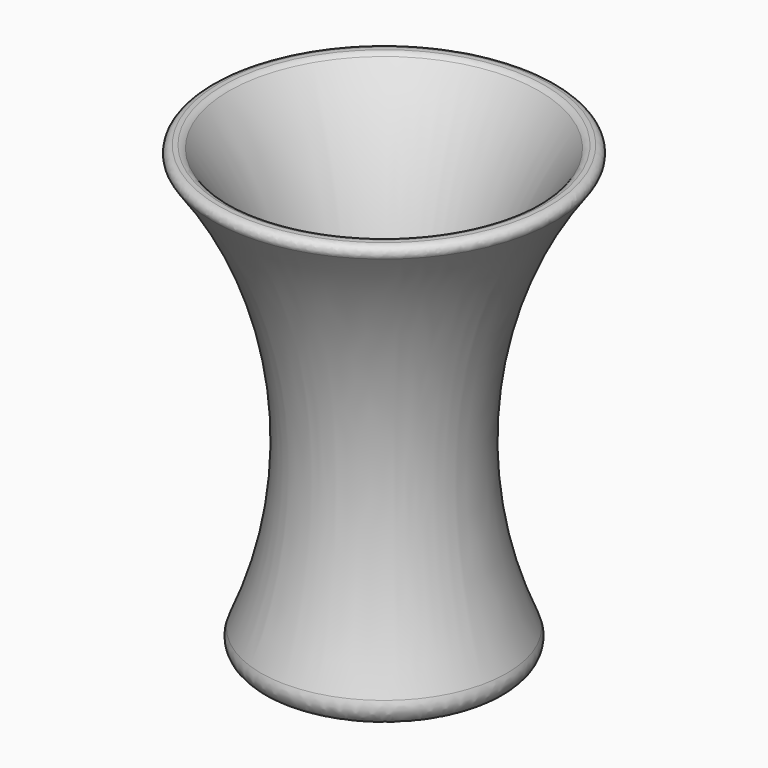
from build123d import *

# Parameters (mm, degrees)
F2_T = -5.08
F3_R = 2.032
F4_R = 5.08
F5_R = 5.08


with BuildPart() as f1:
    # F0 (on Front) → F1 (revolve)
    with BuildSketch(Plane.XZ):
        with BuildLine():
            Line((-7.2803640187, -55.9822989851), (-7.2803640187, 71.0177010149))
            Line((-7.2803640187, 71.0177010149), (-58.0803640187, 71.0177010149))
            ThreePointArc((-58.0803640187, 71.0177010149), (-32.8536748418, 9.4053699326), (-45.3803640187, -55.9822989851))
            Line((-45.3803640187, -55.9822989851), (-7.2803640187, -55.9822989851))
        make_face()
    revolve(axis=Axis((-7.2803640187, 0, 7.5177010149), (0, 0, -1)))

    # F2
    f2_openings = [f1.faces().sort_by_distance(p)[0] for p in [
        (-7.280364, 0, 71.017701),
    ]]
    offset(amount=F2_T, openings=f2_openings)

    # F3
    f3_edges = [f1.edges().sort_by_distance(p)[0] for p in [
        (37.084966, 0, 71.017701),
        (43.519636, 0, 71.017701),
    ]]
    fillet(f3_edges, radius=F3_R)

    # F4
    f4_edges = [f1.edges().sort_by_distance(p)[0] for p in [
        (-27.965981, 0, 11.479253),
        (36.470413, 0, 70.19273),
        (22.776268, 0, -50.902299),
    ]]
    fillet(f4_edges, radius=F4_R)

    # F5
    f5_edges = [f1.edges().sort_by_distance(p)[0] for p in [
        (30.819636, 0, -55.982299),
    ]]
    fillet(f5_edges, radius=F5_R)


solid = f1.part
